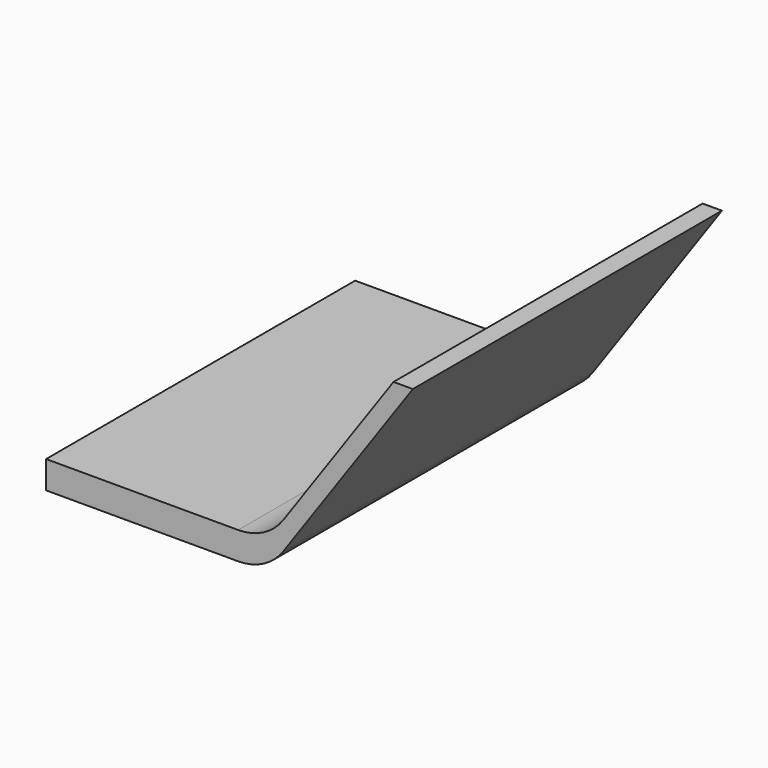
from build123d import *

# Parameters (mm, degrees)
F0_W     = 40
F0_H     = 70
F1_DEPTH = 5
F3_DEPTH = 35
F4_R     = 10


with BuildPart() as f1:
    # F0 (on Top) → F1 (new body)
    with BuildSketch(Plane.XY):
        Rectangle(F0_W, F0_H)
    extrude(amount=F1_DEPTH)

    # F2 (on Front) → F3 (join, symmetric)
    with BuildSketch(Plane.XZ):
        Polygon((42.943057, 37.766082), (20, 5), (20, 0), (46.444095, 37.766082), align=None)
    extrude(amount=F3_DEPTH, both=True)

    # F4
    f4_edges = [f1.edges().sort_by_distance(p)[0] for p in [
        (20, 0, 5),
        (20, 0, 0),
    ]]
    fillet(f4_edges, radius=F4_R)


solid = f1.part
